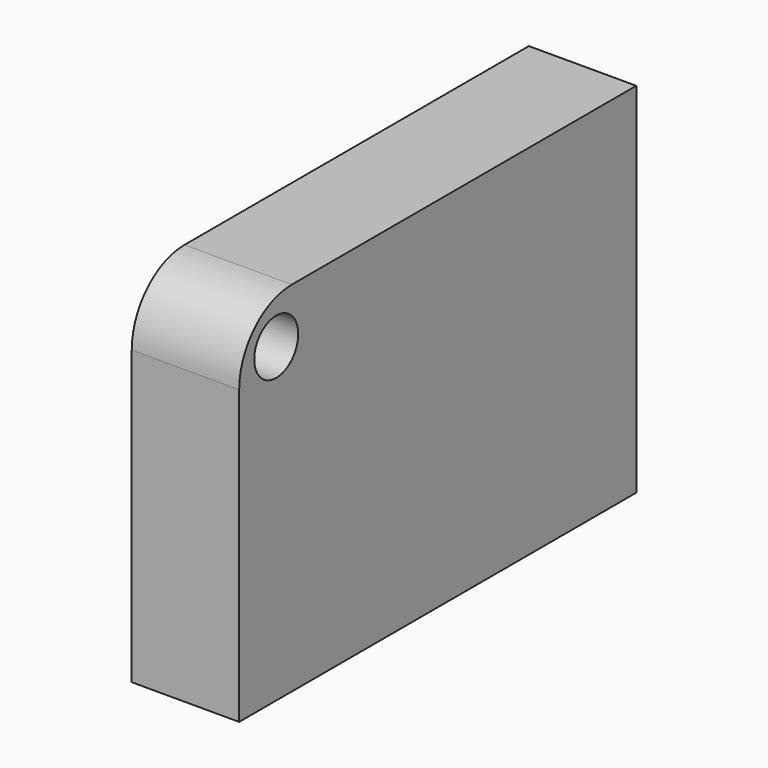
from build123d import *

# Parameters (mm, degrees)
F0_W     = 8.295227
F0_H     = 38.326367
F1_DEPTH = 27.662443
F2_R     = 5.08
F3_R     = 2.121776
F4_DEPTH = 25.4


with BuildPart() as f1:
    # F0 (on Top) → F1 (new body)
    with BuildSketch(Plane.XY):
        with Locations((-51.453689, -5.27262)):
            Rectangle(F0_W, F0_H)
    extrude(amount=F1_DEPTH)

    # F2
    f2_edges = [f1.edges().sort_by_distance(p)[0] for p in [
        (-51.453689, -24.435803, 27.662443),
    ]]
    fillet(f2_edges, radius=F2_R)

    # F3 (on face) → F4 (cut)
    with BuildSketch(Plane(origin=(-55.601303, 0, 0), x_dir=(0, -1, 0), z_dir=(-1, 0, 0))):
        with Locations((20.858478, 24.050102)):
            Circle(F3_R)
    extrude(amount=-F4_DEPTH, mode=Mode.SUBTRACT)


solid = f1.part
